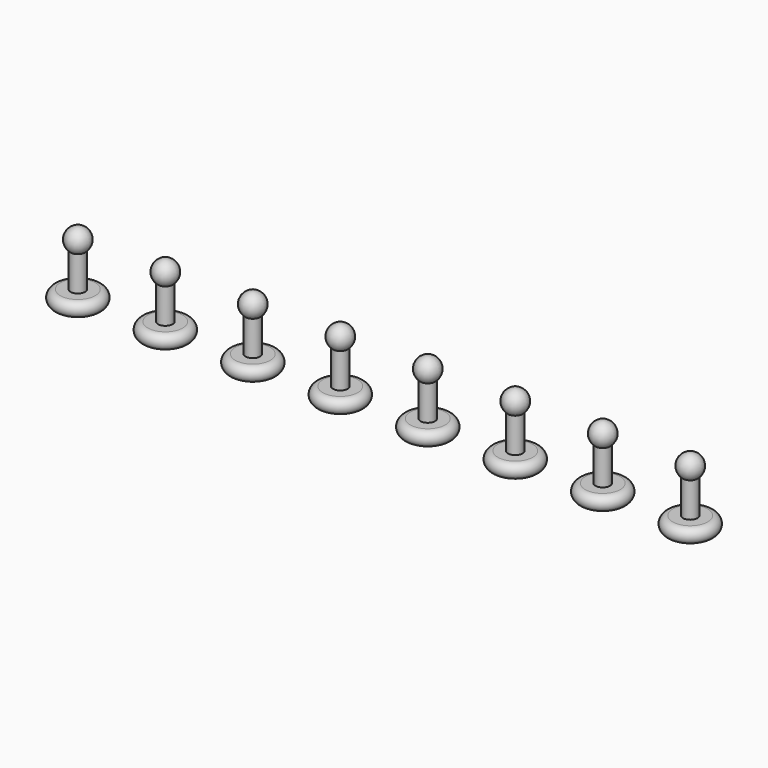
from build123d import *

# Parameters (mm, degrees)
SKETCH021_R     = 3.3
POCKET002_DEPTH = 3.1
ARRAY_X_COUNT   = 8
ARRAY_X_PITCH   = 30


with BuildPart() as part:
    # Sketch002 → Revolution001 (revolve)
    with BuildSketch(Plane.XZ):
        with BuildLine():
            Line((0, 0), (6, 0))
            ThreePointArc((6, 0), (8.5, 2.5), (6, 5))
            Line((6, 5), (0, 5))
            Line((0, 5), (0, 0))
        make_face()
        with BuildLine():
            Line((0, 5), (2.5, 5))
            Line((2.5, 5), (2.5, 16.877501))
            ThreePointArc((2.5, 16.877501), (3.774255, 21.324765), (0, 24))
            Line((0, 5), (0, 24))
        make_face()
    revolve(axis=Axis((0, 0, 0), (0, 0, 1)))

    # Sketch021 → Pocket002 (cut)
    with BuildSketch(Plane(origin=(0, 0, 0), x_dir=(1, 0, 0), z_dir=(0, 0, -1))):
        Circle(SKETCH021_R)
    extrude(amount=-POCKET002_DEPTH, mode=Mode.SUBTRACT)

    # Array X: part ×8


with BuildPart() as part_1:
    add(part.part)
    with Locations(*[(i * ARRAY_X_PITCH, 0, 0) for i in range(1, ARRAY_X_COUNT)]):
        add(part.part)


with BuildPart() as part_2:
    # Array placement: moved
    add(part_1.part.moved(Location((0, 30, 0))))


solid = part_2.part
